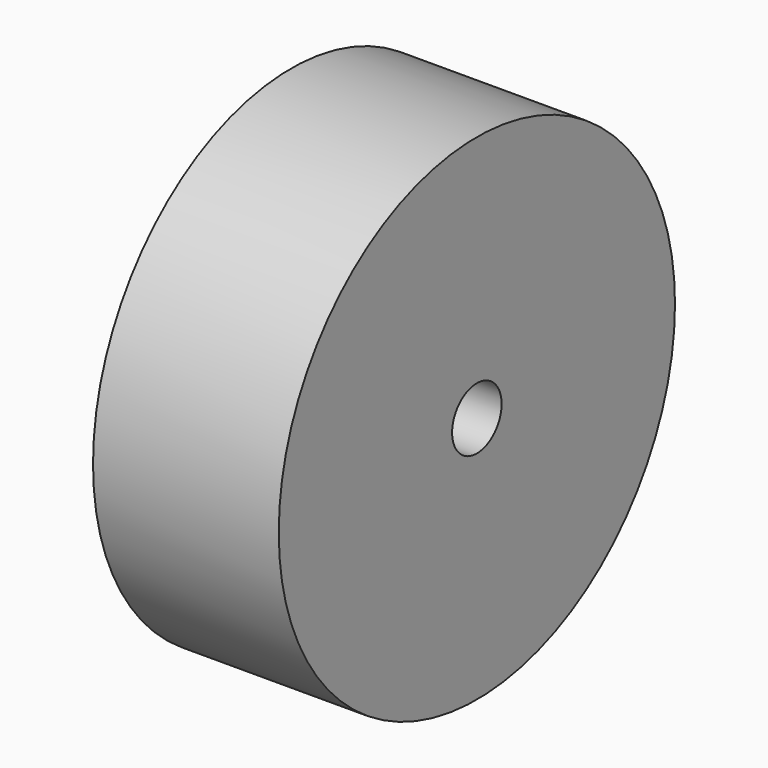
from build123d import *

# Parameters (mm, degrees)
F0_R          = 1.016
F1_DEPTH      = 0.381
F1_DEPTH_BACK = 0.381
F2_R          = 0.127
F3_DEPTH      = 0.763


with BuildPart() as f1:
    # F0 (on Right) → F1 (new body, two sides)
    with BuildSketch(Plane.YZ) as f1_sk:
        Circle(F0_R)
    extrude(amount=F1_DEPTH)
    extrude(f1_sk.sketch, amount=-F1_DEPTH_BACK)

    # F2 (on face) → F3 (cut, through all)
    with BuildSketch(Plane.YZ.offset(0.381)):
        Circle(F2_R)
    extrude(amount=-F3_DEPTH, mode=Mode.SUBTRACT)


solid = f1.part
